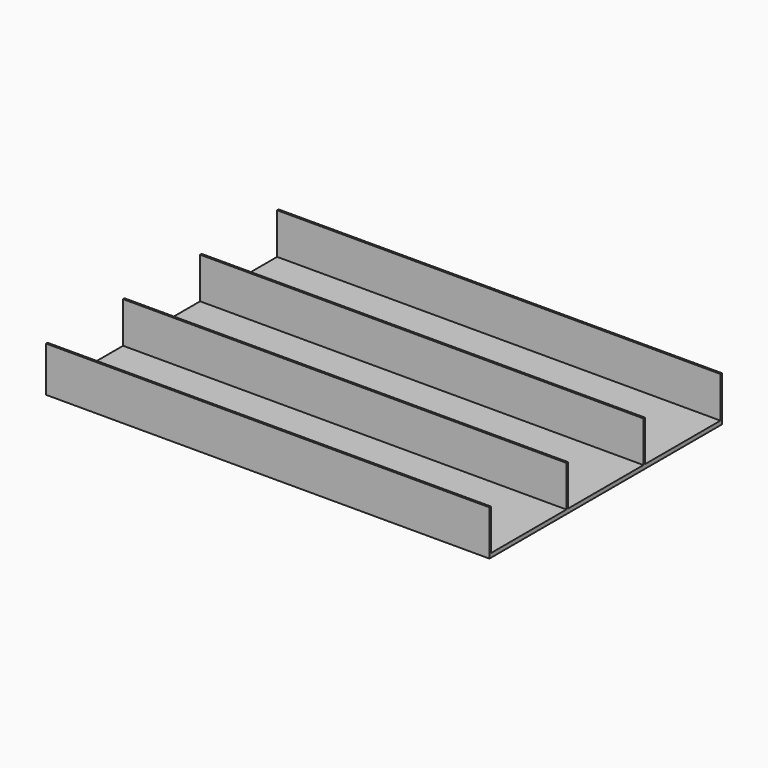
from build123d import *

# Parameters (mm, degrees)
F1_DEPTH = 270


with BuildPart() as f1:
    # F0 (on Right) → F1 (new body, symmetric)
    with BuildSketch(Plane.YZ):
        Polygon((57.5, 0), (0, 0), (-57.5, 0), (-57.5, 50), (-59.75, 50), (-59.75, 0), (-174.75, 0), (-174.75, 50), (-177, 50), (-177, -5), (0, -5), (177, -5), (177, 50), (174.75, 50), (174.75, 0), (59.75, 0), (59.75, 50), (57.5, 50), align=None)
    extrude(amount=F1_DEPTH, both=True)


solid = f1.part
